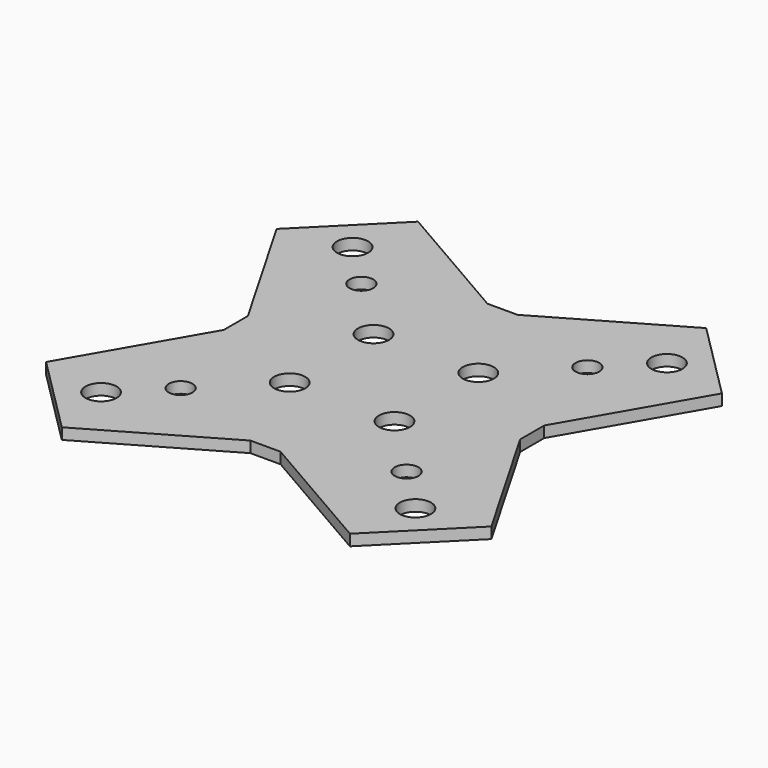
from build123d import *

# Parameters (mm, degrees)
F0_R     = 2.1
F0_R_2   = 1.6
F1_DEPTH = 1.5


with BuildPart() as f1:
    # F0 (on Top) → F1 (new body)
    with BuildSketch(Plane.XY):
        Polygon((-19.445436, 30.052038), (-30.052038, 19.445436), (-20, 2.034796), (-20, -2.034796), (-30.052038, -19.445436), (-19.445436, -30.052038), (-2.034796, -20), (2.034796, -20), (19.445436, -30.052038), (30.052038, -19.445436), (20, -2.034796), (20, 2.034796), (30.052038, 19.445436), (19.445436, 30.052038), (2.034796, 20), (-2.034796, 20), align=None)
        with Locations((-21.213203, -21.213203)):
            Circle(F0_R, mode=Mode.SUBTRACT)
        with Locations((-15.25, -15.25)):
            Circle(F0_R_2, mode=Mode.SUBTRACT)
        with Locations((-7.071068, -7.071068)):
            Circle(F0_R, mode=Mode.SUBTRACT)
        with Locations((21.213203, -21.213203)):
            Circle(F0_R, mode=Mode.SUBTRACT)
        with Locations((15.25, -15.25)):
            Circle(F0_R_2, mode=Mode.SUBTRACT)
        with Locations((7.071068, -7.071068)):
            Circle(F0_R, mode=Mode.SUBTRACT)
        with Locations((-7.071068, 7.071068)):
            Circle(F0_R, mode=Mode.SUBTRACT)
        with Locations((-15.25, 15.25)):
            Circle(F0_R_2, mode=Mode.SUBTRACT)
        with Locations((-21.213203, 21.213203)):
            Circle(F0_R, mode=Mode.SUBTRACT)
        with Locations((7.071068, 7.071068)):
            Circle(F0_R, mode=Mode.SUBTRACT)
        with Locations((15.25, 15.25)):
            Circle(F0_R_2, mode=Mode.SUBTRACT)
        with Locations((21.213203, 21.213203)):
            Circle(F0_R, mode=Mode.SUBTRACT)
    extrude(amount=F1_DEPTH)


solid = f1.part
